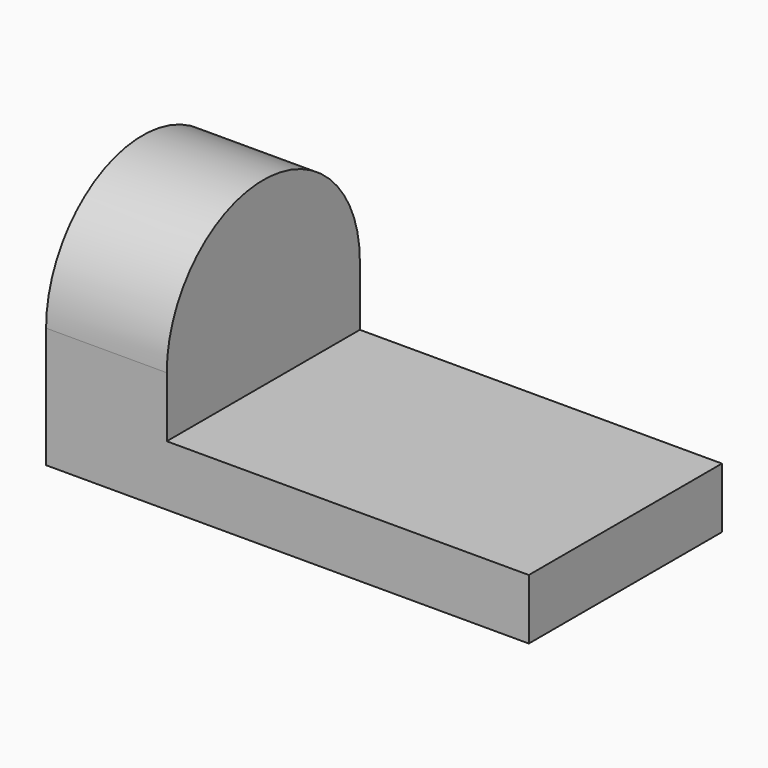
from build123d import *

# Parameters (mm, degrees)
F0_W     = 38.1
F0_H     = 6.35
F1_DEPTH = 25.4
F3_DEPTH = 12.7


with BuildPart() as f1:
    # F0 (on Front) → F1 (new body)
    with BuildSketch(Plane.XZ):
        with Locations((19.05, 3.175)):
            Rectangle(F0_W, F0_H)
    extrude(amount=F1_DEPTH)

    # F2 (on face) → F3 (join)
    with BuildSketch(Plane(origin=(0, 0, 0), x_dir=(0, -1, 0), z_dir=(-1, 0, 0))):
        with BuildLine():
            Line((0, 12.7), (0, 0))
            Line((0, 0), (25.4, 0))
            Line((25.4, 0), (25.4, 12.7))
            ThreePointArc((25.4, 12.7), (12.7, 25.4), (0, 12.7))
        make_face()
    extrude(amount=F3_DEPTH)


solid = f1.part
